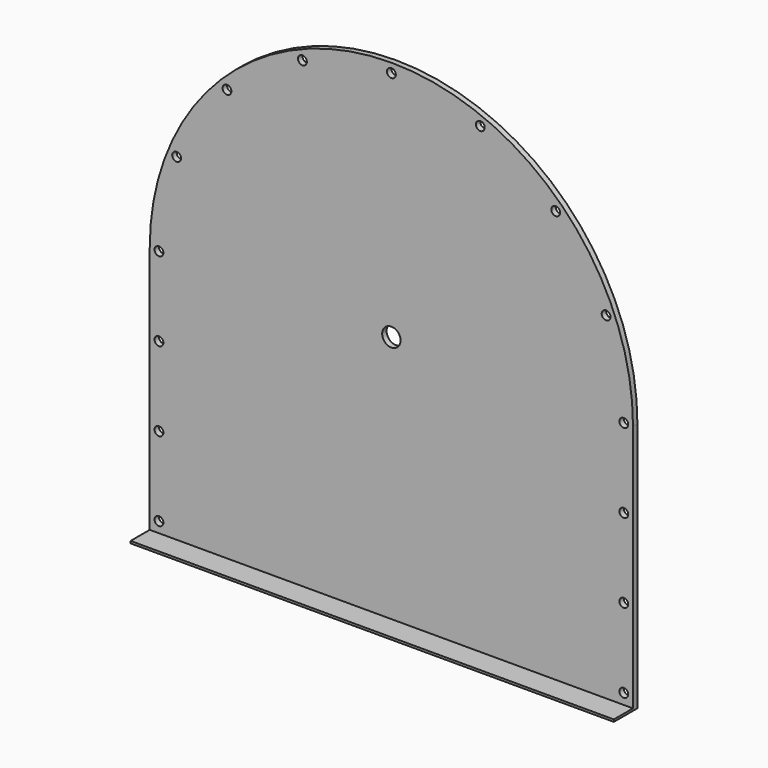
from build123d import *

# Parameters (mm, degrees)
PAD_DEPTH              = 15
SKETCH001_R            = 25
POCKET_DEPTH           = 15.001
SKETCH002_R            = 12
POCKET001_DEPTH        = 3760.11248
POLARPATTERN_COUNT     = 9
POLARPATTERN_ANGLE     = 180
LINEARPATTERN_COUNT    = 4
LINEARPATTERN_PITCH    = 215
SKETCH003_R            = 12
POCKET002_DEPTH        = 15.001
LINEARPATTERN001_COUNT = 4
LINEARPATTERN001_PITCH = 215
SKETCH004_W            = 1312
SKETCH004_H            = 6
PAD001_DEPTH           = 65


with BuildPart() as part:
    # Sketch → Pad (new body)
    with BuildSketch(Plane.XZ):
        with BuildLine():
            Line((-656, -680), (656, -680))
            Line((656, -680), (656, 0))
            ThreePointArc((656, 0), (0, 656), (-656, 0))
            Line((-656, 0), (-656, -680))
        make_face()
    extrude(amount=PAD_DEPTH)

    # Sketch001 (on Face6 of Pad) → Pocket (cut, through all)
    with BuildSketch(Plane.XZ.offset(15)):
        Circle(SKETCH001_R)
    extrude(amount=-POCKET_DEPTH, mode=Mode.SUBTRACT)

    # Sketch002 (on Face5 of Pocket) → Pocket001 (cut, through all)
    with BuildSketch(Plane.XZ.offset(15)):
        with Locations((631, 0)):
            Circle(SKETCH002_R)
    pocket001 = extrude(amount=-POCKET001_DEPTH, mode=Mode.SUBTRACT)

    # PolarPattern: Pocket001 ×9 about axis
    polarpattern_axis = Axis((0, 0, 0), (0, -1, 0))
    for i in range(1, POLARPATTERN_COUNT):
        add(pocket001.rotate(polarpattern_axis, i * POLARPATTERN_ANGLE / (POLARPATTERN_COUNT - 1)), mode=Mode.SUBTRACT)

    # LinearPattern: Pocket001 ×4
    with Locations(*[(0, 0, -i * LINEARPATTERN_PITCH) for i in range(1, LINEARPATTERN_COUNT)]):
        add(pocket001, mode=Mode.SUBTRACT)

    # Sketch003 (on Face5 of LinearPattern) → Pocket002 (cut, through all)
    with BuildSketch(Plane.XZ.offset(15)):
        with Locations((-631, 0)):
            Circle(SKETCH003_R)
    pocket002 = extrude(amount=-POCKET002_DEPTH, mode=Mode.SUBTRACT)

    # LinearPattern001: Pocket002 ×4
    with Locations(*[(0, 0, -i * LINEARPATTERN001_PITCH) for i in range(1, LINEARPATTERN001_COUNT)]):
        add(pocket002, mode=Mode.SUBTRACT)

    # Sketch004 (on Face5 of LinearPattern001) → Pad001 (join)
    with BuildSketch(Plane.XZ.offset(15)):
        with Locations((0, -677)):
            Rectangle(SKETCH004_W, SKETCH004_H)
    extrude(amount=PAD001_DEPTH)


solid = part.part
